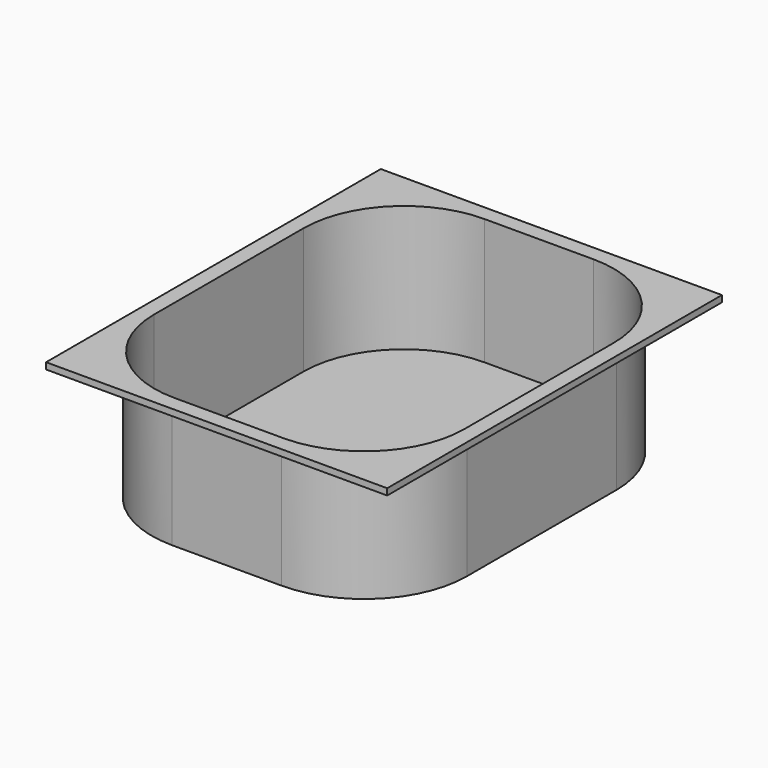
from build123d import *

# Parameters (mm, degrees)
F0_W     = 265
F0_H     = 325
F1_DEPTH = 5
F3_DEPTH = 95
F4_DEPTH = 25
F5_DEPTH = 98
F6_R     = 17
F7_DEPTH = 25
F6_R_2   = 20
F8_DEPTH = 30
F9_DEPTH = 5


with BuildPart() as f1:
    # F0 (on Top) → F1 (new body)
    with BuildSketch(Plane.XY):
        with Locations((132.5, 162.5)):
            Rectangle(F0_W, F0_H)
    extrude(amount=F1_DEPTH)

    # F2 (on face) → F3 (join)
    with BuildSketch(Plane(origin=(0, 0, 0), x_dir=(1, 0, 0), z_dir=(0, 0, -1))):
        with BuildLine():
            ThreePointArc((255, -90), (231.5685424949, -33.4314575051), (175, -10))
            Line((175, -10), (90, -10))
            ThreePointArc((90, -10), (33.4314575051, -33.4314575051), (10, -90))
            Line((10, -90), (10, -235))
            ThreePointArc((10, -235), (33.4314575051, -291.5685424949), (90, -315))
            Line((90, -315), (175, -315))
            ThreePointArc((175, -315), (231.5685424949, -291.5685424949), (255, -235))
            Line((255, -235), (255, -90))
        make_face()
        with BuildLine():
            ThreePointArc((175, -12), (230.1543289326, -34.8456710674), (253, -90))
            Line((253, -90), (253, -235))
            ThreePointArc((253, -235), (230.1543289326, -290.1543289326), (175, -313))
            Line((175, -313), (90, -313))
            ThreePointArc((90, -313), (34.8456710674, -290.1543289326), (12, -235))
            Line((12, -235), (12, -90))
            ThreePointArc((12, -90), (34.8456710674, -34.8456710674), (90, -12))
            Line((90, -12), (175, -12))
        make_face(mode=Mode.SUBTRACT)
        with BuildLine():
            Line((253, -235), (253, -90))
            ThreePointArc((253, -90), (230.1543289326, -34.8456710674), (175, -12))
            Line((175, -12), (90, -12))
            ThreePointArc((90, -12), (34.8456710674, -34.8456710674), (12, -90))
            Line((12, -90), (12, -235))
            ThreePointArc((12, -235), (34.8456710674, -290.1543289326), (90, -313))
            Line((90, -313), (175, -313))
            ThreePointArc((175, -313), (230.1543289326, -290.1543289326), (253, -235))
        make_face()
    extrude(amount=F3_DEPTH)

    # F2 (on face) → F4 (cut)
    with BuildSketch(Plane(origin=(0, 0, 0), x_dir=(1, 0, 0), z_dir=(0, 0, -1))):
        with BuildLine():
            ThreePointArc((255, -90), (231.5685424949, -33.4314575051), (175, -10))
            Line((175, -10), (90, -10))
            ThreePointArc((90, -10), (33.4314575051, -33.4314575051), (10, -90))
            Line((10, -90), (10, -235))
            ThreePointArc((10, -235), (33.4314575051, -291.5685424949), (90, -315))
            Line((90, -315), (175, -315))
            ThreePointArc((175, -315), (231.5685424949, -291.5685424949), (255, -235))
            Line((255, -235), (255, -90))
        make_face()
        with BuildLine():
            ThreePointArc((175, -12), (230.1543289326, -34.8456710674), (253, -90))
            Line((253, -90), (253, -235))
            ThreePointArc((253, -235), (230.1543289326, -290.1543289326), (175, -313))
            Line((175, -313), (90, -313))
            ThreePointArc((90, -313), (34.8456710674, -290.1543289326), (12, -235))
            Line((12, -235), (12, -90))
            ThreePointArc((12, -90), (34.8456710674, -34.8456710674), (90, -12))
            Line((90, -12), (175, -12))
        make_face(mode=Mode.SUBTRACT)
    extrude(amount=-F4_DEPTH, mode=Mode.SUBTRACT)

    # F5 (cut): a face of the model
    f5_faces = [f1.faces().sort_by_distance(p)[0] for p in [
        (132.5, 162.5, 5),
    ]]
    extrude(f5_faces, amount=-F5_DEPTH, mode=Mode.SUBTRACT)

    # F6 (on face) → F7 (cut)
    with BuildSketch(Plane(origin=(0, 0, -95), x_dir=(1, 0, 0), z_dir=(0, 0, -1))):
        with Locations((132.5, -80)):
            Circle(F6_R)
    extrude(amount=-F7_DEPTH, mode=Mode.SUBTRACT)

    # F6 (on face) → F8 (join)
    with BuildSketch(Plane(origin=(0, 0, -95), x_dir=(1, 0, 0), z_dir=(0, 0, -1))):
        with Locations((132.5, -80)):
            Circle(F6_R_2)
        with Locations((132.5, -80)):
            Circle(F6_R, mode=Mode.SUBTRACT)
        with Locations((132.5, -80)):
            Circle(F6_R)
    extrude(amount=F8_DEPTH)

    # F9 (add): a face of the model
    f9_faces = [f1.faces().sort_by_distance(p)[0] for p in [
        (231.2919109711, 33.7080890289, 0),
    ]]
    extrude(f9_faces, amount=F9_DEPTH)


solid = f1.part
